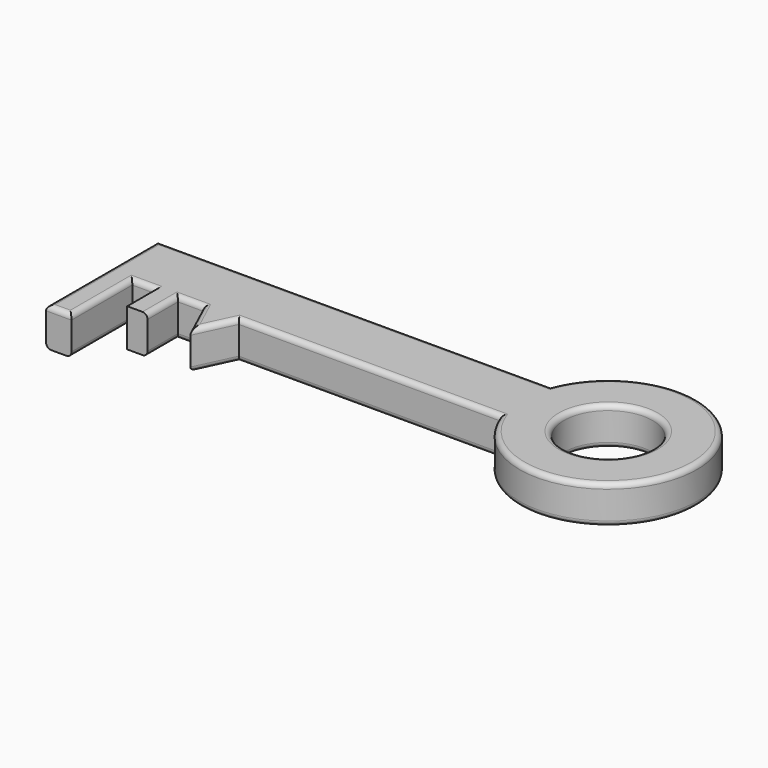
from build123d import *

# Parameters (mm, degrees)
F0_W     = 8
F0_H     = 15
F0_W_2   = 10
F0_H_2   = 30
F0_R     = 17.5
F1_DEPTH = 15
F2_R     = 2


with BuildPart() as f1:
    # F0 (on Top) → F1 (new body)
    with BuildSketch(Plane.XY):
        Polygon((-21.3343975244, -12.5), (-21.3343975244, 12.5), (-176.3343975244, 12.5), (-176.3343975244, -12.5), (-166.3343975244, -12.5), (-156.3343975244, -12.5), (-148.3343975244, -12.5), (-138.3343975244, -12.5), (-124.3343975244, -12.5), align=None)
        with Locations((-152.3343975244, -20)):
            Rectangle(F0_W, F0_H)
        with Locations((-171.3343975244, -27.5)):
            Rectangle(F0_W_2, F0_H_2)
        Polygon((-131.424844265, -27.5), (-124.3343975244, -12.5), (-138.3343975244, -12.5), align=None)
        with BuildLine():
            ThreePointArc((-21.3343975244, -12.5), (46.3573445521, 0), (-21.3343975244, 12.5))
            Line((-21.3343975244, 12.5), (-21.3343975244, -12.5))
        make_face()
        with Locations((11.3573445521, 0)):
            Circle(F0_R, mode=Mode.SUBTRACT)
    extrude(amount=F1_DEPTH)

    # F2
    f2_edges = [f1.edges().sort_by_distance(p)[0] for p in [
        (-98.834398, 12.5, 15),
        (-72.834398, -12.5, 15),
        (-127.879621, -20, 15),
        (-134.879621, -20, 15),
        (-148.334398, -20, 15),
        (-143.334398, -12.5, 15),
        (-161.334398, -12.5, 15),
        (-166.334398, -27.5, 15),
        (-171.334398, -42.5, 15),
        (-176.334398, -15, 15),
        (46.357345, 0, 15),
        (-6.142655, 0, 15),
        (-98.834398, 12.5, 0),
        (-72.834398, -12.5, 0),
        (-127.879621, -20, 0),
        (-143.334398, -12.5, 0),
        (-134.879621, -20, 0),
        (-148.334398, -20, 0),
        (46.357345, 0, 0),
        (-6.142655, 0, 0),
        (-176.334398, -15, 0),
        (-166.334398, -27.5, 0),
        (-161.334398, -12.5, 0),
    ]]
    fillet(f2_edges, radius=F2_R)


solid = f1.part
